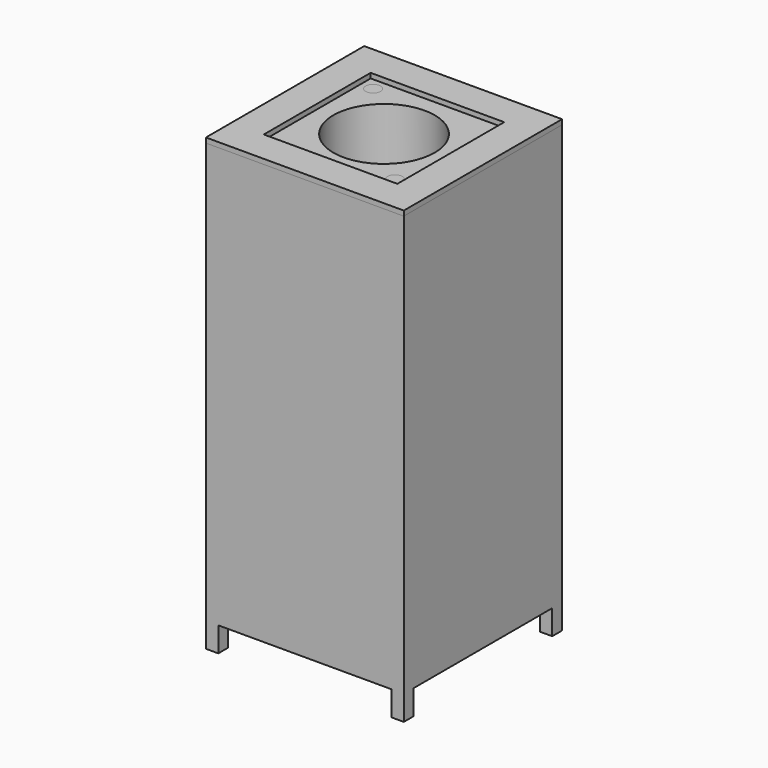
from build123d import *

# Parameters (mm, degrees)
F0_W          = 60
F0_H          = 60
F1_DEPTH      = 130
F2_R          = 20.5
F3_DEPTH      = 150
F4_R          = 3
F5_DEPTH      = 100
F6_DEPTH      = 100
F7_W          = 80
F7_H          = 80
F8_DEPTH      = 130
F8_DEPTH_BACK = 20
F9_T          = -1
F10_R         = 20.5
F11_DEPTH     = 25
F12_R         = 22.5
F12_R_2       = 20.5
F13_DEPTH     = 19
F14_W         = 60
F14_H         = 60
F14_R         = 20.5
F15_DEPTH     = 20
F17_DEPTH     = 30
F16_W         = 1
F16_H         = 70
F16_W_2       = 70
F16_H_2       = 1
F18_DEPTH     = 20
F19_DEPTH     = 149
F8_FACE1_W    = 80
F8_FACE1_H    = 80
F8_FACE1_W_2  = 78
F8_FACE1_H_2  = 78
F21_W         = 60
F21_H         = 60
F21_W_2       = 54
F21_H_2       = 54
F22_DEPTH     = 2


with BuildPart() as f1:
    # F0 (on Top) → F1 (new body)
    with BuildSketch(Plane.XY):
        Rectangle(F0_W, F0_H)
    extrude(amount=F1_DEPTH)

    # F2 (on face) → F3 (cut)
    with BuildSketch(Plane.XY.offset(130)):
        Circle(F2_R)
    extrude(amount=-F3_DEPTH, mode=Mode.SUBTRACT)

    # F4 (on face) → F5 (cut)
    with BuildSketch(Plane.XY.offset(130)):
        with Locations((-22, 22)):
            Circle(F4_R)
        with Locations((22, -22)):
            Circle(F4_R)
    extrude(amount=-F5_DEPTH, mode=Mode.SUBTRACT)


with BuildPart() as f6:
    # F4 (on face) → F6 (new body)
    with BuildSketch(Plane.XY.offset(130)):
        with Locations((22, -22)):
            Circle(F4_R)
    extrude(amount=-F6_DEPTH)


with BuildPart() as f6b:
    # F4 (on face) → F6, piece 2 (new body)
    with BuildSketch(Plane.XY.offset(130)):
        with Locations((-22, 22)):
            Circle(F4_R)
    extrude(amount=-F6_DEPTH)


with BuildPart() as f8:
    # F7 (on Top) → F8 (new body, two sides)
    with BuildSketch(Plane.XY) as f8_sk:
        Rectangle(F7_W, F7_H)
    extrude(amount=F8_DEPTH)
    extrude(f8_sk.sketch, amount=-F8_DEPTH_BACK)

    # F9
    f9_openings = [f8.faces().sort_by_distance(p)[0] for p in [
        (0, 0, 130),
    ]]
    offset(amount=F9_T, openings=f9_openings)

    # F10 (on face) → F11 (cut)
    with BuildSketch(Plane(origin=(0, 0, -20), x_dir=(1, 0, 0), z_dir=(0, 0, -1))):
        Circle(F10_R)
    extrude(amount=-F11_DEPTH, mode=Mode.SUBTRACT)

    # F16 (on face) → F17 (join)
    with BuildSketch(Plane(origin=(0, 0, -20), x_dir=(1, 0, 0), z_dir=(0, 0, -1))):
        Polygon((35, -40), (40, -40), (40, -35), (39, -35), (37.5, -35), (35, -35), (35, -39), align=None)
        Polygon((-40, -40), (-35, -40), (-35, -39), (-35, -35), (-39, -35), (-40, -35), align=None)
        Polygon((-40, 40), (-40, 35), (-39, 35), (-35, 35), (-35, 39), (-35, 40), align=None)
        Polygon((39, 35), (40, 35), (40, 40), (35, 40), (35, 39), (35, 35), (37.5, 35), align=None)
    extrude(amount=F17_DEPTH)

    # F16 (on face) → F18 (join)
    with BuildSketch(Plane(origin=(0, 0, -20), x_dir=(1, 0, 0), z_dir=(0, 0, -1))):
        with Locations((39.5, 0)):
            Rectangle(F16_W, F16_H)
        with Locations((0, -39.5)):
            Rectangle(F16_W_2, F16_H_2)
        with Locations((-39.5, 0)):
            Rectangle(F16_W, F16_H)
        with Locations((0, 39.5)):
            Rectangle(F16_W_2, F16_H_2)
    extrude(amount=F18_DEPTH)


with BuildPart() as f13:
    # F12 (on face) → F13 (new body)
    with BuildSketch(Plane.XY.offset(-19)):
        Circle(F12_R)
        Circle(F12_R_2, mode=Mode.SUBTRACT)
    extrude(amount=F13_DEPTH)


with BuildPart() as f15:
    # F14 (on face) → F15 (new body)
    with BuildSketch(Plane(origin=(0, 0, -20), x_dir=(1, 0, 0), z_dir=(0, 0, -1))):
        Rectangle(F14_W, F14_H)
        Circle(F14_R, mode=Mode.SUBTRACT)
        Circle(F14_R)
    extrude(amount=F15_DEPTH)


with BuildPart() as f19:
    # F19 (new): a face of the model
    f19_faces = [f8.part.faces().sort_by_distance(p)[0] for p in [
        (37.8969134213, 0, -19),
    ]]
    extrude(f19_faces, amount=F19_DEPTH)

    # F20: cut F15, F13, F6b, F8, F6, F1
    add(f15.part, mode=Mode.SUBTRACT)
    add(f13.part, mode=Mode.SUBTRACT)
    add(f6b.part, mode=Mode.SUBTRACT)
    add(f8.part, mode=Mode.SUBTRACT)
    add(f6.part, mode=Mode.SUBTRACT)
    add(f1.part, mode=Mode.SUBTRACT)


with BuildPart() as f22:
    # F8_face1 (on face) + F21 (on face) → F22 (new body)
    with BuildSketch(Plane.XY.offset(130)):
        Rectangle(F8_FACE1_W, F8_FACE1_H)
        Rectangle(F8_FACE1_W_2, F8_FACE1_H_2, mode=Mode.SUBTRACT)
    with BuildSketch(Plane.XY.offset(130)):
        Polygon((-39, -39), (39, -39), (39, 39), (-39, 39), (-39, -38.8472890854), align=None)
        Rectangle(F21_W, F21_H, mode=Mode.SUBTRACT)
        Rectangle(F21_W, F21_H)
        Rectangle(F21_W_2, F21_H_2, mode=Mode.SUBTRACT)
    extrude(amount=F22_DEPTH)


solid = Compound([f1.part, f6.part, f6b.part, f8.part, f13.part, f15.part, f19.part, f22.part])
